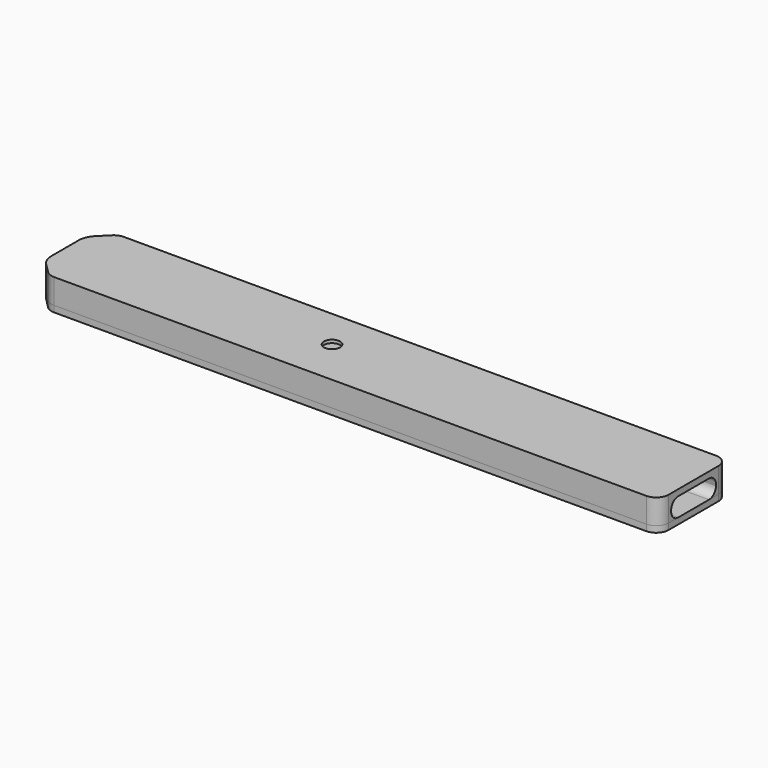
from build123d import *

# Parameters (mm, degrees)
BOX001_W        = 5
BOX001_H        = 5
BOX001_DEPTH    = 3
BOX_W           = 62
BOX_H           = 12
BOX_DEPTH       = 1.5
BOX007_W        = 101
BOX007_H        = 14
BOX007_DEPTH    = 1
FILLET006_R     = 2
CHAMFER002_SIZE = 3
CHAMFER003_SIZE = 3
FILLET007_R     = 2
FILLET008_R     = 2
FILLET010_R     = 3
BOX009_W        = 8
BOX009_H        = 7
BOX009_DEPTH    = 9
BOX008_W        = 5
BOX008_H        = 5
BOX008_DEPTH    = 10
CYLINDER_R      = 1.3
CYLINDER_DEPTH  = 10
BOX006_W        = 9
BOX006_H        = 9
BOX006_DEPTH    = 3
FILLET_R        = 1.4
FILLET001_R     = 1.4
BOX005_W        = 5
BOX005_H        = 5
BOX005_DEPTH    = 3
BOX004_W        = 62
BOX004_H        = 12
BOX004_DEPTH    = 1.5
BOX003_W        = 91
BOX003_H        = 9
BOX003_DEPTH    = 3
BOX002_W        = 101
BOX002_H        = 14
BOX002_DEPTH    = 4
FILLET002_R     = 2
FILLET003_R     = 2
CHAMFER_SIZE    = 3
CHAMFER001_SIZE = 3
FILLET004_R     = 2
FILLET005_R     = 2
FILLET009_R     = 3


with BuildPart() as box001:
    # Box001 → Box001 (new body)
    with BuildSketch(Plane(origin=(37, 4, 0), x_dir=(1, 0, 0), z_dir=(0, 0, 1))):
        with Locations((2.5, 2.5)):
            Rectangle(BOX001_W, BOX001_H)
    extrude(amount=BOX001_DEPTH)


with BuildPart() as fusion:
    # Box → Box (new body)
    with BuildSketch(Plane.XY):
        with Locations((31, 6)):
            Rectangle(BOX_W, BOX_H)
    extrude(amount=BOX_DEPTH)

    # Fusion: union Box001
    add(box001.part)


with BuildPart() as fillet010:
    # Box007 → Box007 (new body)
    with BuildSketch(Plane(origin=(-3, -1, -1), x_dir=(1, 0, 0), z_dir=(0, 0, 1))):
        with Locations((50.5, 7)):
            Rectangle(BOX007_W, BOX007_H)
    extrude(amount=BOX007_DEPTH)

    # Fillet006
    fillet006_edges = [fillet010.edges().sort_by_distance(p)[0] for p in [
        (98, -1, -0.5),
        (98, 13, -0.5),
    ]]
    fillet(fillet006_edges, radius=FILLET006_R)

    # Chamfer002
    chamfer002_edges = [fillet010.edges().sort_by_distance(p)[0] for p in [
        (-3, 13, -0.5),
    ]]
    chamfer(chamfer002_edges, length=CHAMFER002_SIZE)

    # Chamfer003
    chamfer003_edges = [fillet010.edges().sort_by_distance(p)[0] for p in [
        (-3, -1, -0.5),
    ]]
    chamfer(chamfer003_edges, length=CHAMFER003_SIZE)

    # Fillet007
    fillet007_edges = [fillet010.edges().sort_by_distance(p)[0] for p in [
        (0, -1, -0.5),
    ]]
    fillet(fillet007_edges, radius=FILLET007_R)

    # Fillet008
    fillet008_edges = [fillet010.edges().sort_by_distance(p)[0] for p in [
        (0, 13, -0.5),
    ]]
    fillet(fillet008_edges, radius=FILLET008_R)

    # Fillet010
    fillet010_edges = [fillet010.edges().sort_by_distance(p)[0] for p in [
        (-3, 10, -0.5),
        (-3, 2, -0.5),
    ]]
    fillet(fillet010_edges, radius=FILLET010_R)


with BuildPart() as box009:
    # Box009 → Box009 (new body)
    with BuildSketch(Plane(origin=(24, 2, -5.5), x_dir=(1, 0, 0), z_dir=(0, 0, 1))):
        with Locations((4, 3.5)):
            Rectangle(BOX009_W, BOX009_H)
    extrude(amount=BOX009_DEPTH)


with BuildPart() as box008:
    # Box008 → Box008 (new body)
    with BuildSketch(Plane(origin=(37, 4, -6.5), x_dir=(1, 0, 0), z_dir=(0, 0, 1))):
        with Locations((2.5, 2.5)):
            Rectangle(BOX008_W, BOX008_H)
    extrude(amount=BOX008_DEPTH)


with BuildPart() as cylinder:
    # Cylinder → Cylinder (new body)
    with BuildSketch(Plane(origin=(39.5, 6.5, 0), x_dir=(1, 0, 0), z_dir=(0, 0, 1))):
        Circle(CYLINDER_R)
    extrude(amount=CYLINDER_DEPTH)


with BuildPart() as fillet001:
    # Box006 → Box006 (new body)
    with BuildSketch(Plane.XY):
        with Locations((4.5, 4.5)):
            Rectangle(BOX006_W, BOX006_H)
    extrude(amount=BOX006_DEPTH)

    # Fillet
    fillet_edges = [fillet001.edges().sort_by_distance(p)[0] for p in [
        (4.5, 9, 0),
        (4.5, 9, 3),
    ]]
    fillet(fillet_edges, radius=FILLET_R)

    # Fillet001
    fillet001_edges = [fillet001.edges().sort_by_distance(p)[0] for p in [
        (4.5, 0, 3),
        (4.5, 0, 0),
    ]]
    fillet(fillet001_edges, radius=FILLET001_R)


with BuildPart() as fillet001_1:
    # Fillet001 placement: moved
    add(fillet001.part.moved(Location((89, 1.5, 0))))


with BuildPart() as box005:
    # Box005 → Box005 (new body)
    with BuildSketch(Plane(origin=(37, 4, 0), x_dir=(1, 0, 0), z_dir=(0, 0, 1))):
        with Locations((2.5, 2.5)):
            Rectangle(BOX005_W, BOX005_H)
    extrude(amount=BOX005_DEPTH)


with BuildPart() as fusion001:
    # Box004 → Box004 (new body)
    with BuildSketch(Plane.XY):
        with Locations((31, 6)):
            Rectangle(BOX004_W, BOX004_H)
    extrude(amount=BOX004_DEPTH)

    # Fusion001: union Box005
    add(box005.part)


with BuildPart() as box003:
    # Box003 → Box003 (new body)
    with BuildSketch(Plane(origin=(0, 1.5, 0), x_dir=(1, 0, 0), z_dir=(0, 0, 1))):
        with Locations((45.5, 4.5)):
            Rectangle(BOX003_W, BOX003_H)
    extrude(amount=BOX003_DEPTH)


with BuildPart() as cut005:
    # Box002 → Box002 (new body)
    with BuildSketch(Plane(origin=(-3, -1, 0), x_dir=(1, 0, 0), z_dir=(0, 0, 1))):
        with Locations((50.5, 7)):
            Rectangle(BOX002_W, BOX002_H)
    extrude(amount=BOX002_DEPTH)

    # Cut: cut Box003
    add(box003.part, mode=Mode.SUBTRACT)

    # Cut001: cut Fusion001
    add(fusion001.part, mode=Mode.SUBTRACT)

    # Cut002: cut Fillet001
    add(fillet001_1.part, mode=Mode.SUBTRACT)

    # Fillet002
    fillet002_edges = [cut005.edges().sort_by_distance(p)[0] for p in [
        (98, -1, 2),
    ]]
    fillet(fillet002_edges, radius=FILLET002_R)

    # Fillet003
    fillet003_edges = [cut005.edges().sort_by_distance(p)[0] for p in [
        (98, 13, 2),
    ]]
    fillet(fillet003_edges, radius=FILLET003_R)

    # Chamfer
    chamfer_edges = [cut005.edges().sort_by_distance(p)[0] for p in [
        (-3, -1, 2),
    ]]
    chamfer(chamfer_edges, length=CHAMFER_SIZE)

    # Chamfer001
    chamfer001_edges = [cut005.edges().sort_by_distance(p)[0] for p in [
        (-3, 13, 2),
    ]]
    chamfer(chamfer001_edges, length=CHAMFER001_SIZE)

    # Fillet004
    fillet004_edges = [cut005.edges().sort_by_distance(p)[0] for p in [
        (0, -1, 2),
    ]]
    fillet(fillet004_edges, radius=FILLET004_R)

    # Fillet005
    fillet005_edges = [cut005.edges().sort_by_distance(p)[0] for p in [
        (0, 13, 2),
    ]]
    fillet(fillet005_edges, radius=FILLET005_R)

    # Fillet009
    fillet009_edges = [cut005.edges().sort_by_distance(p)[0] for p in [
        (-3, 10, 2),
        (-3, 2, 2),
    ]]
    fillet(fillet009_edges, radius=FILLET009_R)

    # Cut003: cut Cylinder
    add(cylinder.part, mode=Mode.SUBTRACT)

    # Cut004: cut Box008
    add(box008.part, mode=Mode.SUBTRACT)

    # Cut005: cut Box009
    add(box009.part, mode=Mode.SUBTRACT)


solid = Compound([fusion.part, fillet010.part, cut005.part])
